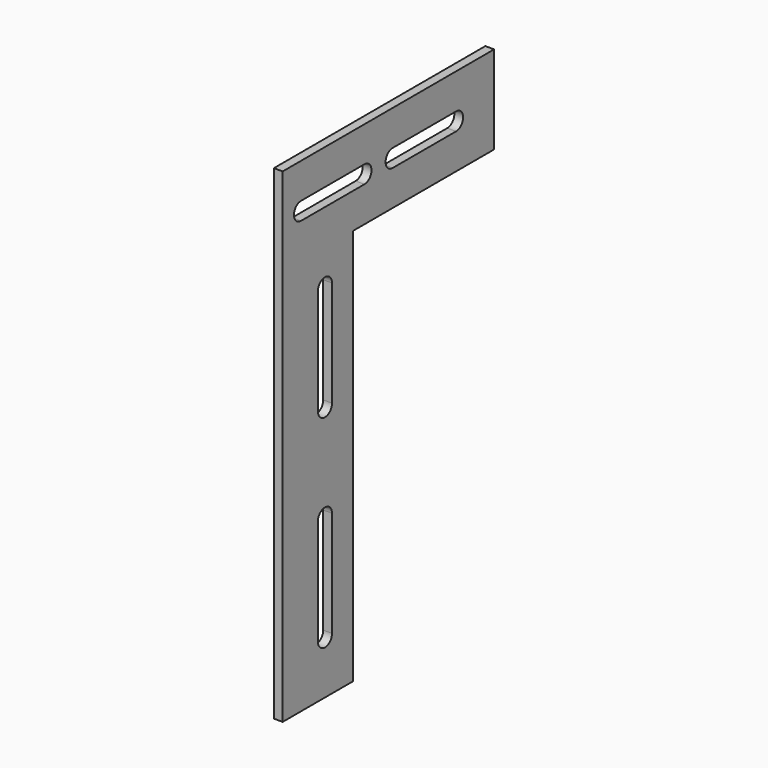
from build123d import *

# Parameters (mm, degrees)
F1_DEPTH = 10


with BuildPart() as f1:
    # F0 (on Right) → F1 (new body)
    with BuildSketch(Plane.YZ):
        Polygon((-109.380952, 198.095238), (-109.380952, -351.904762), (-9.380952, -351.904762), (-9.380952, 98.095238), (190.619048, 98.095238), (190.619048, 198.095238), align=None)
        with BuildLine():
            Line((-59.380952, -291.904762), (-59.380952, -171.904762))
            ThreePointArc((-59.380952, -171.904762), (-49.380952, -161.904762), (-39.380952, -171.904762))
            Line((-39.380952, -171.904762), (-39.380952, -291.904762))
            ThreePointArc((-39.380952, -291.904762), (-49.380952, -301.904762), (-59.380952, -291.904762))
        make_face(mode=Mode.SUBTRACT)
        with BuildLine():
            Line((-39.380952, 58.095238), (-39.380952, -61.904762))
            ThreePointArc((-39.380952, -61.904762), (-49.380952, -71.904762), (-59.380952, -61.904762))
            Line((-59.380952, -61.904762), (-59.380952, 58.095238))
            ThreePointArc((-59.380952, 58.095238), (-49.380952, 68.095238), (-39.380952, 58.095238))
        make_face(mode=Mode.SUBTRACT)
        with BuildLine():
            Line((-83.380952, 158.095238), (6.619048, 158.095238))
            ThreePointArc((6.619048, 158.095238), (16.619048, 148.095238), (6.619048, 138.095238))
            Line((6.619048, 138.095238), (-83.380952, 138.095238))
            ThreePointArc((-83.380952, 138.095238), (-93.380952, 148.095238), (-83.380952, 158.095238))
        make_face(mode=Mode.SUBTRACT)
        with BuildLine():
            Line((136.619048, 138.095238), (46.619048, 138.095238))
            ThreePointArc((46.619048, 138.095238), (36.619048, 148.095238), (46.619048, 158.095238))
            Line((46.619048, 158.095238), (136.619048, 158.095238))
            ThreePointArc((136.619048, 158.095238), (146.619048, 148.095238), (136.619048, 138.095238))
        make_face(mode=Mode.SUBTRACT)
    extrude(amount=F1_DEPTH)


solid = f1.part
